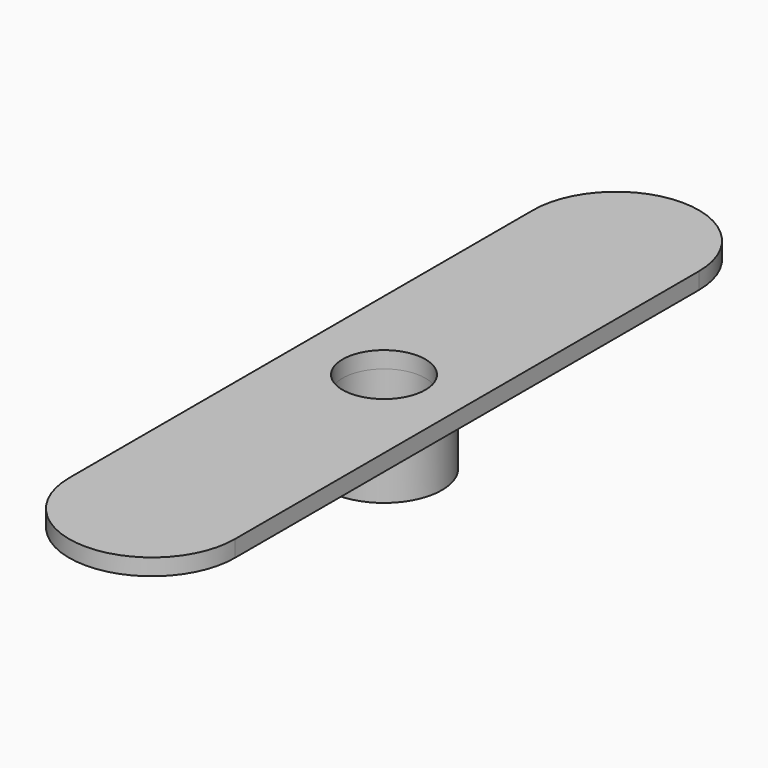
from build123d import *

# Parameters (mm, degrees)
SKETCH_R      = 2.5
PAD_DEPTH     = 1
SKETCH001_R   = 3.5
SKETCH001_R_2 = 2.5
PAD001_DEPTH  = 4


with BuildPart() as part:
    # Sketch → Pad (new body)
    with BuildSketch(Plane.XY):
        with BuildLine():
            ThreePointArc((5, 17.5), (1.3e-05, 22.5), (-5, 17.500026))
            Line((-5, 17.500026), (-5, -17.5))
            ThreePointArc((-5, -17.5), (0, -22.5), (5, -17.5))
            Line((5, 17.5), (5, -17.5))
        make_face()
        Circle(SKETCH_R, mode=Mode.SUBTRACT)
    extrude(amount=-PAD_DEPTH)

    # Sketch001 (on Face7 of Pad) → Pad001 (join)
    with BuildSketch(Plane(origin=(0, 0, -1), x_dir=(1, 0, 0), z_dir=(0, 0, -1))):
        Circle(SKETCH001_R)
        Circle(SKETCH001_R_2, mode=Mode.SUBTRACT)
    extrude(amount=PAD001_DEPTH)


solid = part.part
